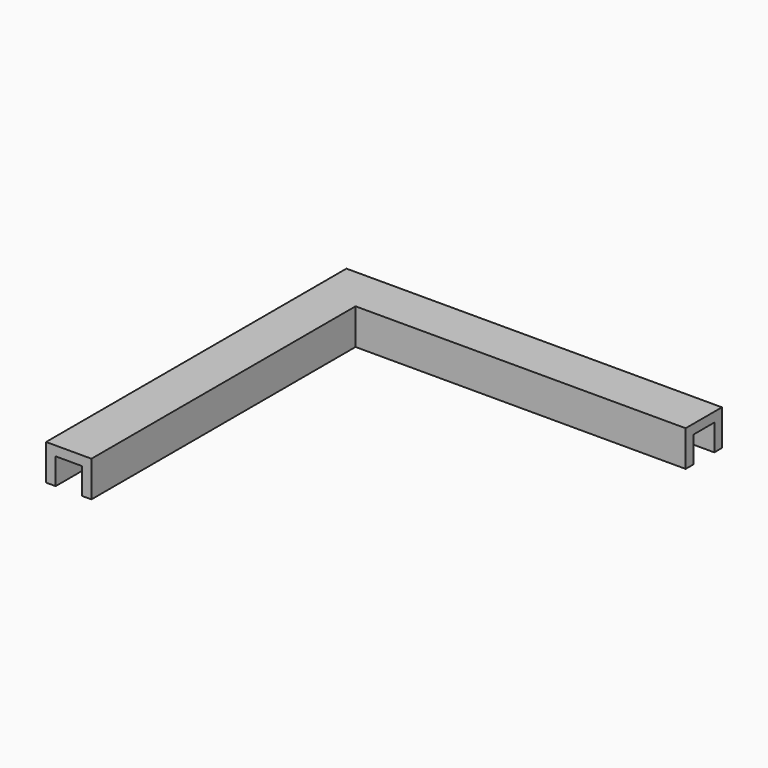
from build123d import *

# Parameters (mm, degrees)
F1_DEPTH = 95.4
F2_DEPTH = 70


with BuildPart() as f1:
    # F0 (on Top) → F1 (new body)
    with BuildSketch(Plane.XY):
        Polygon((-176.886553, 33.338161), (-176.886553, 103.338161), (-106.886553, 103.338161), (797.713447, 103.338161), (797.713447, 128.738161), (-81.486553, 128.738161), (-202.286553, 128.738161), (-202.286553, -1.536219), (-202.286553, -871.261839), (-176.886553, -871.261839), align=None)
        Polygon((-106.886553, 103.338161), (-176.886553, 103.338161), (-176.886553, 33.338161), (-176.886553, -871.261839), (-106.886553, -871.261839), (-106.886553, 33.338161), (797.713447, 33.338161), (797.713447, 103.338161), align=None)
        Polygon((797.713447, 7.938161), (797.713447, 33.338161), (-106.886553, 33.338161), (-106.886553, -871.261839), (-81.486553, -871.261839), (-81.486553, 7.938161), align=None)
    extrude(amount=F1_DEPTH)

    # F0 (on Top) → F2 (cut)
    with BuildSketch(Plane.XY):
        Polygon((-106.886553, 103.338161), (-176.886553, 103.338161), (-176.886553, 33.338161), (-176.886553, -871.261839), (-106.886553, -871.261839), (-106.886553, 33.338161), (797.713447, 33.338161), (797.713447, 103.338161), align=None)
    extrude(amount=F2_DEPTH, mode=Mode.SUBTRACT)


solid = f1.part
